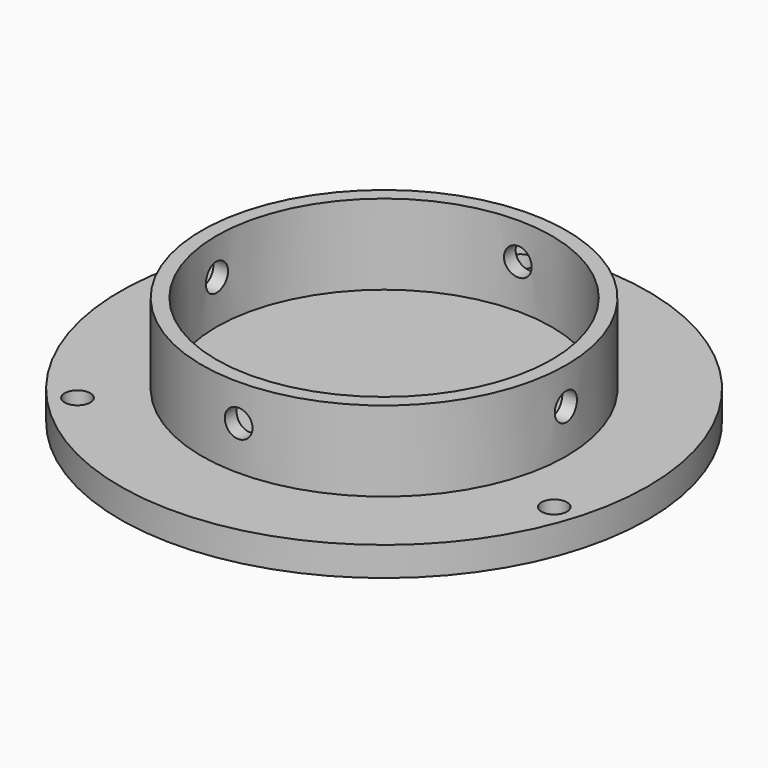
from build123d import *

# Parameters (mm, degrees)
F0_R      = 31.75
F0_R_2    = 29.21
F1_DEPTH  = 13.97
F4_R      = 45.974
F5_DEPTH  = 5.08
F6_R      = 2.413
F7_DEPTH  = 38.1
F9_D      = 4.445
F9_DEPTH  = 12.7
F10_R     = 2.413
F11_DEPTH = 50.8


with BuildPart() as f1:
    # F0 (on Top) → F1 (new body)
    with BuildSketch(Plane.XY):
        Circle(F0_R)
        Circle(F0_R_2, mode=Mode.SUBTRACT)
    extrude(amount=F1_DEPTH)

    # F4 (on Top) → F5 (join)
    with BuildSketch(Plane.XY):
        Circle(F4_R)
    extrude(amount=-F5_DEPTH)

    # F6 (on Front) → F7 (cut, symmetric)
    with BuildSketch(Plane.XZ):
        with Locations((0, 7.62)):
            Circle(F6_R)
    extrude(amount=F7_DEPTH, both=True, mode=Mode.SUBTRACT)

    # F9
    with Locations(Plane.XY):
        with Locations((-8.89, 40.826303), (-30.911615, -28.112117), (39.801615, -12.714185)):
            Hole(F9_D / 2, depth=F9_DEPTH)

    # F10 (on Right) → F11 (cut, symmetric)
    with BuildSketch(Plane.YZ):
        with Locations((0, 7.62)):
            Circle(F10_R)
    extrude(amount=F11_DEPTH, both=True, mode=Mode.SUBTRACT)


solid = f1.part
